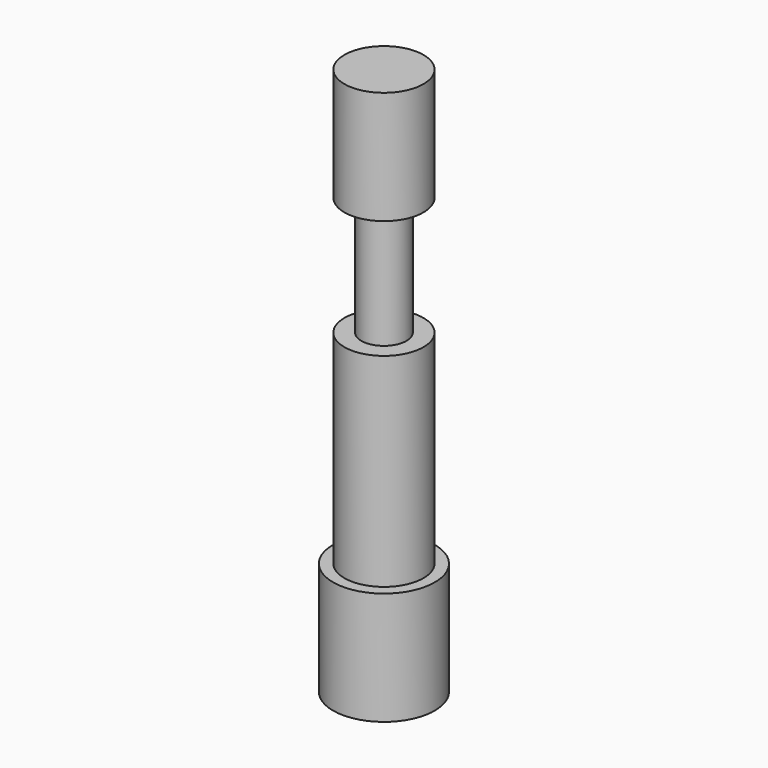
from build123d import *

# Parameters (mm, degrees)
F0_W = 1.5
F0_H = 3


with BuildPart() as f1:
    # F0 (on Front) → F1 (revolve)
    with BuildSketch(Plane.XZ):
        Polygon((0, -17.871598), (0, 7.128402), (-1, 6.128402), (-1, -0.871598), (-1, -3.871598), (-1, -10.871598), (-1, -12.871598), (-0.5, -12.871598), (-0.5, -17.005572), align=None)
    revolve(axis=Axis((0, 0, 8.628402), (0, 0, 1)))


with BuildPart() as f2:
    # F0 (on Front) → F2 (revolve)
    with BuildSketch(Plane.XZ):
        with Locations((-1.75, -2.371598)):
            Rectangle(F0_W, F0_H)
        Polygon((-1, -12.871598), (-1, -10.871598), (-2.5, -10.871598), (-2.5, -13.871598), (-1, -13.871598), align=None)
    revolve(axis=Axis((0, 0, -5.371598), (0, 0, 1)))


with BuildPart() as f3:
    # F0 (on Front) → F3 (revolve)
    with BuildSketch(Plane.XZ):
        Polygon((-1.5, 7.128402), (0, 7.128402), (0, 8.628402), (-1.5, 8.628402), (-1.5, 7.628402), align=None)
    revolve(axis=Axis((0, 0, -5.371598), (0, 0, 1)))


with BuildPart() as f4:
    # F0 (on Front) → F4 (revolve)
    with BuildSketch(Plane.XZ):
        Polygon((-1.5, 8.628402), (0, 8.628402), (0, 32.628402), (-3.5, 32.628402), (-3.5, 22.628402), (-2, 22.628402), (-2, 12.128402), (-2, 7.628402), (-1.5, 7.628402), align=None)
    revolve(axis=Axis((0, 0, 8.628402), (0, 0, 1)))


with BuildPart() as f5:
    # F0 (on Front) → F5 (revolve)
    with BuildSketch(Plane.XZ):
        Polygon((-2.5, -3.871598), (-2.5, -0.871598), (-2.5, 4.128402), (-2, 4.128402), (-2, 7.628402), (-2, 12.128402), (-3.5, 12.128402), (-3.5, -5.871598), (-4.5, -5.871598), (-4.5, -15.871598), (-2.5, -15.871598), (-2.5, -13.871598), (-2.5, -10.871598), align=None)
    revolve(axis=Axis((0, 0, -5.371598), (0, 0, 1)))


solid = Compound([f1.part, f2.part, f3.part, f4.part, f5.part])
